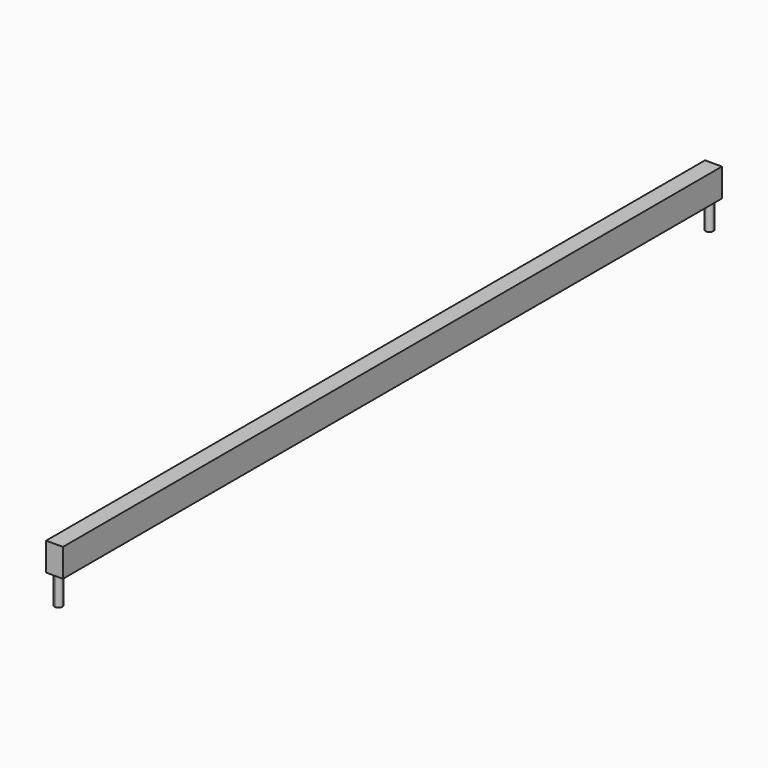
from build123d import *

# Parameters (mm, degrees)
F0_W          = 1463
F0_H          = 50
F1_DEPTH      = 15
F1_DEPTH_BACK = 15
F3_DEPTH      = 50
F5_DEPTH      = 50


with BuildPart() as f1:
    # F0 (on Right) → F1 (new body, two sides)
    with BuildSketch(Plane.YZ) as f1_sk:
        Rectangle(F0_W, F0_H)
    extrude(amount=F1_DEPTH)
    extrude(f1_sk.sketch, amount=-F1_DEPTH_BACK)

    # F2 (on face) → F3 (join)
    with BuildSketch(Plane(origin=(0, 0, -25), x_dir=(1, 0, 0), z_dir=(0, 0, -1))):
        with BuildLine():
            ThreePointArc((0, 729.5), (-4.949747, 717.550253), (7, 722.5))
            ThreePointArc((7, 722.5), (4.949747, 727.449747), (0, 729.5))
        make_face()
    extrude(amount=F3_DEPTH)

    # F4 (on face) → F5 (join)
    with BuildSketch(Plane(origin=(0, 0, -25), x_dir=(1, 0, 0), z_dir=(0, 0, -1))):
        with BuildLine():
            ThreePointArc((0, -729.5), (4.949747, -727.449747), (7, -722.5))
            ThreePointArc((7, -722.5), (-4.949747, -717.550253), (0, -729.5))
        make_face()
    extrude(amount=F5_DEPTH)


solid = f1.part
